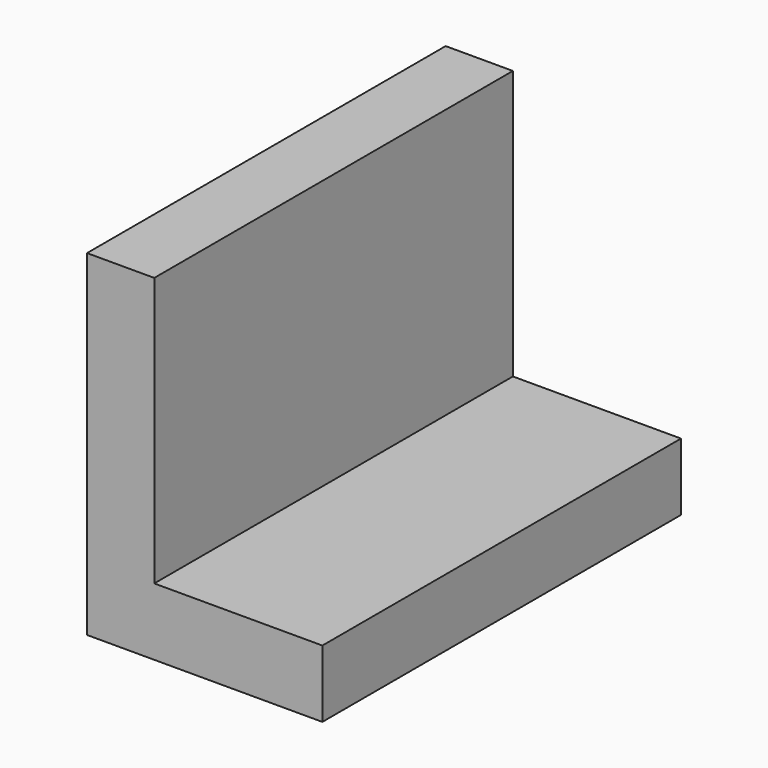
from build123d import *

# Parameters (mm, degrees)
F1_DEPTH = 400
F2_R     = 50
F3_DEPTH = 50


with BuildPart() as f1:
    # F0 (on Front) → F1 (new body)
    with BuildSketch(Plane.XZ):
        Polygon((-30, -150), (30, -150), (180, -150), (180, -89.999999), (30, -89.999999), (30, 150), (-30, 150), align=None)
    extrude(amount=F1_DEPTH)

    # F2 (on face) → F3 (cut)
    with BuildSketch(Plane(origin=(-30, 0, 0), x_dir=(0, -1, 0), z_dir=(-1, 0, 0))):
        with Locations((200, 0)):
            Circle(F2_R)
    extrude(amount=-F3_DEPTH, mode=Mode.SUBTRACT)


solid = f1.part
